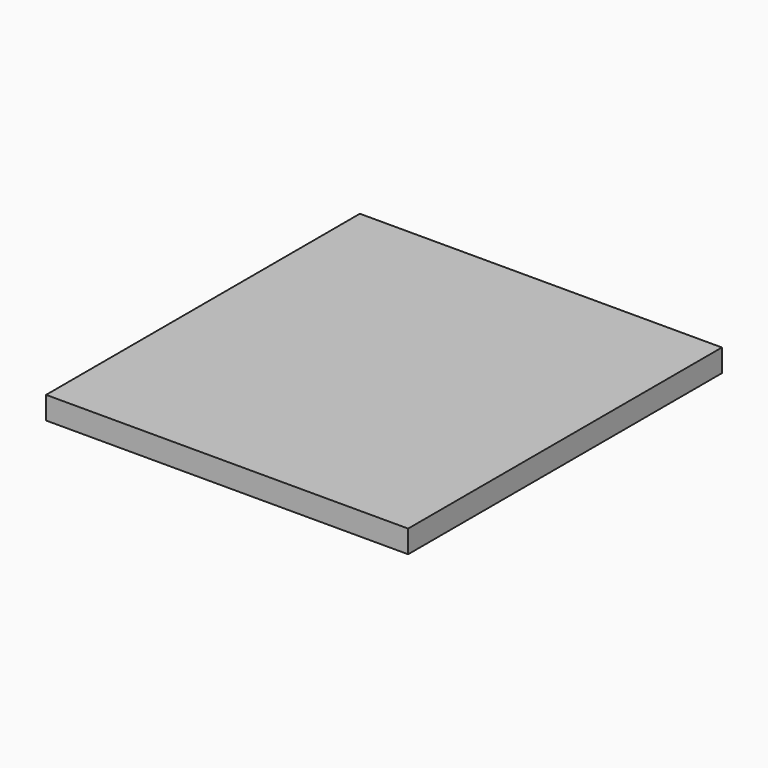
from build123d import *

# Parameters (mm, degrees)
BOX_W     = 304.8
BOX_H     = 330.2
BOX_DEPTH = 19.05


with BuildPart() as part:
    # Box → Box (new body)
    with BuildSketch(Plane.XY):
        with Locations((152.4, 165.1)):
            Rectangle(BOX_W, BOX_H)
    extrude(amount=BOX_DEPTH)


solid = part.part
